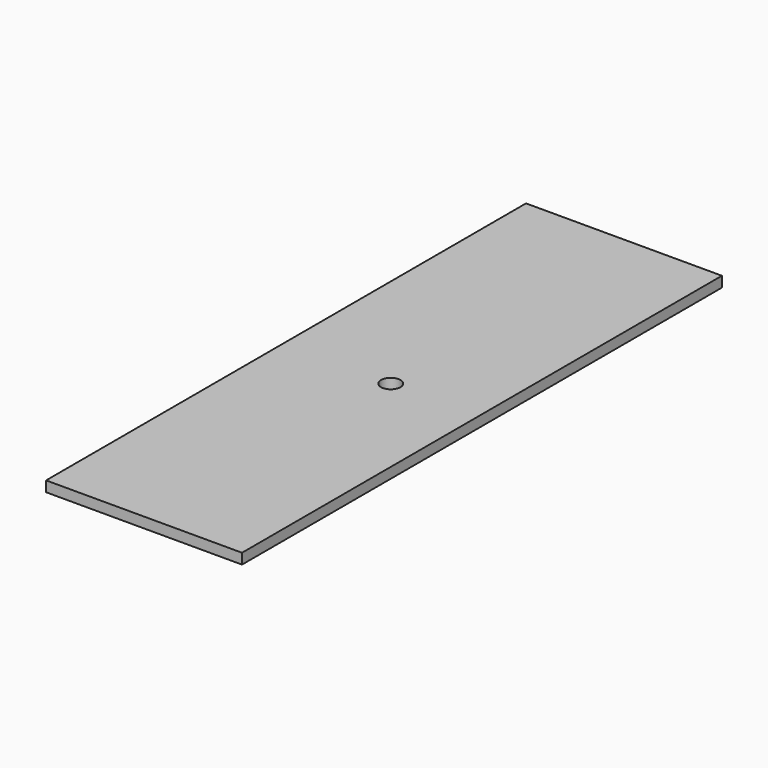
from build123d import *

# Parameters (mm, degrees)
F0_W     = 63.939228
F0_H     = 195.772797
F1_DEPTH = 3.41538
F3_D     = 6.35


with BuildPart() as f1:
    # F0 (on Top) → F1 (new body)
    with BuildSketch(Plane.XY):
        with Locations((-21.597199, -9.747163)):
            Rectangle(F0_W, F0_H)
        with Locations((-21.597199, -9.747163)):
            Rectangle(F0_W, F0_H)
    extrude(amount=F1_DEPTH)

    # F3 (through all)
    with Locations(Plane.XY.offset(3.41538)):
        with Locations((-18.350869, -11.062443)):
            Hole(F3_D / 2)


solid = f1.part
